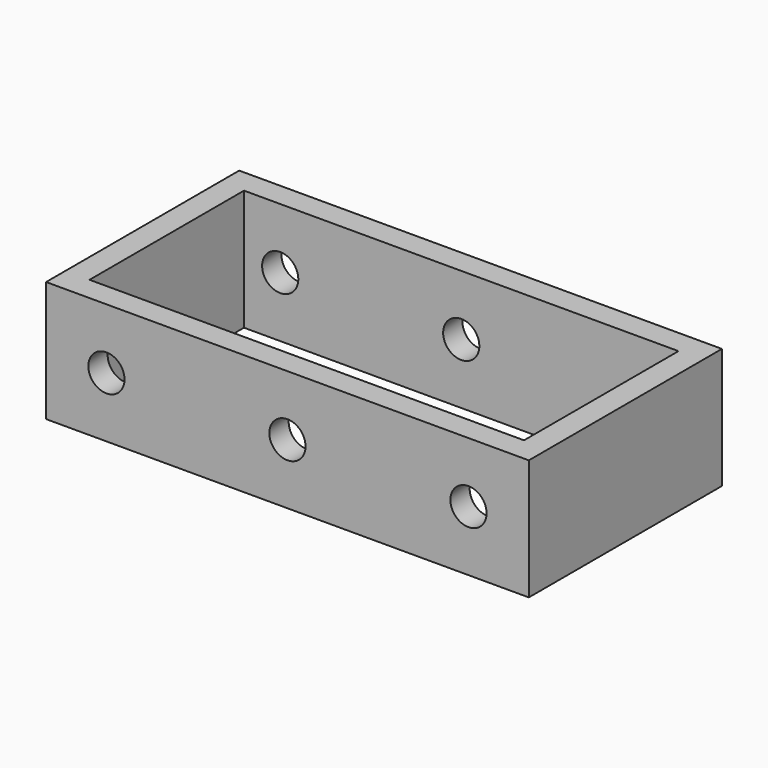
from build123d import *

# Parameters (mm, degrees)
F0_W     = 200
F0_H     = 100
F0_W_2   = 180
F0_H_2   = 80
F1_DEPTH = 50
F2_R     = 7.5
F3_DEPTH = 200


with BuildPart() as f1:
    # F0 (on Top) → F1 (new body)
    with BuildSketch(Plane.XY):
        Rectangle(F0_W, F0_H)
        Rectangle(F0_W_2, F0_H_2, mode=Mode.SUBTRACT)
    extrude(amount=-F1_DEPTH)

    # F2 (on face) → F3 (cut)
    with BuildSketch(Plane.XZ.offset(50)):
        with Locations((0, -25)):
            Circle(F2_R)
        with Locations((75, -25)):
            Circle(F2_R)
        with Locations((-75, -25)):
            Circle(F2_R)
    extrude(amount=-F3_DEPTH, mode=Mode.SUBTRACT)


solid = f1.part
